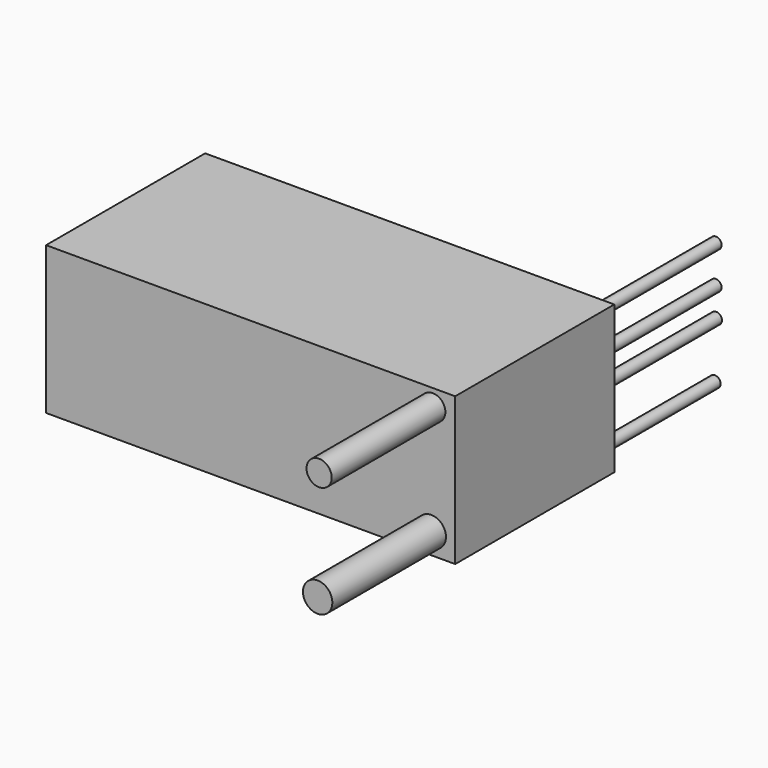
from build123d import *

# Parameters (mm, degrees)
F0_W     = 72
F0_H     = 35
F1_DEPTH = 26
F2_R     = 2.215241
F2_R_2   = 2.584448
F3_DEPTH = 25
F4_R     = 1
F5_DEPTH = 25


with BuildPart() as f1:
    # F0 (on Top) → F1 (new body)
    with BuildSketch(Plane.XY):
        Rectangle(F0_W, F0_H)
    extrude(amount=F1_DEPTH)

    # F2 (on face) → F3 (join)
    with BuildSketch(Plane.XZ.offset(17.5)):
        with Locations((32.055214, 22.994446)):
            Circle(F2_R)
        with Locations((31.794146, 3.67538)):
            Circle(F2_R_2)
    extrude(amount=F3_DEPTH)

    # F4 (on face) → F5 (join)
    with BuildSketch(Plane(origin=(0, 17.5, 0), x_dir=(-1, 0, 0), z_dir=(0, 1, 0))):
        with Locations((-33.889978, 24.676624)):
            Circle(F4_R)
        with Locations((-33.882375, 18.111377)):
            Circle(F4_R)
        with Locations((-33.944174, 13.035096)):
            Circle(F4_R)
        with Locations((-33.705986, 3.123124)):
            Circle(F4_R)
    extrude(amount=F5_DEPTH)


solid = f1.part
